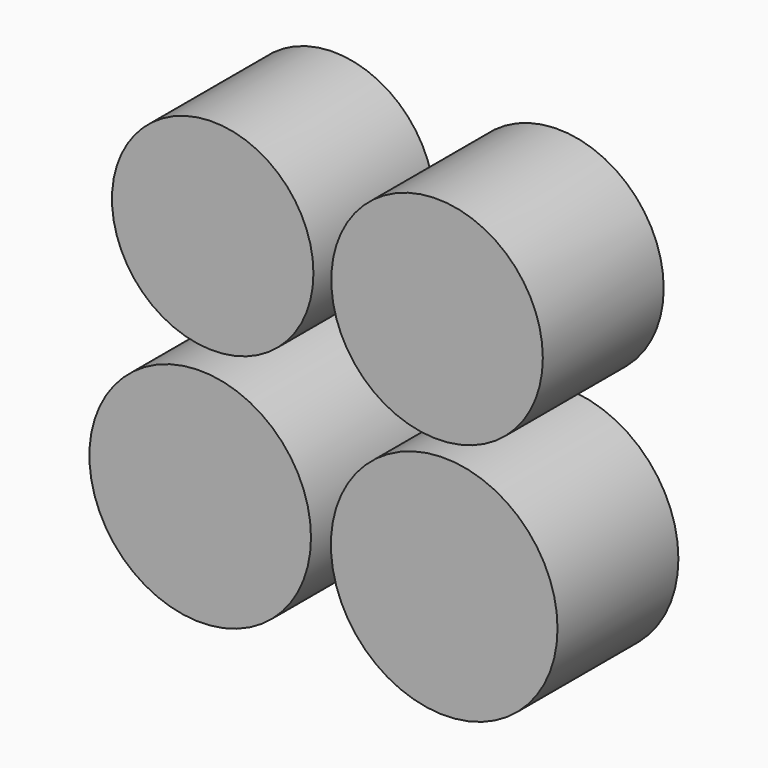
from build123d import *

# Parameters (mm, degrees)
F0_R     = 25.4
F0_R_2   = 26.67
F0_R_3   = 27.94
F0_R_4   = 28.575
F1_DEPTH = 38.1


with BuildPart() as f1:
    # F0 (on Front) → F1 (new body)
    with BuildSketch(Plane.XZ):
        with Locations((-68.802454, 48.2301)):
            Circle(F0_R)
        with Locations((-12.231998, 48.2301)):
            Circle(F0_R_2)
        with Locations((-71.957774, -10.594157)):
            Circle(F0_R_3)
        with Locations((-10.428956, -10.594157)):
            Circle(F0_R_4)
    extrude(amount=F1_DEPTH)


solid = f1.part
